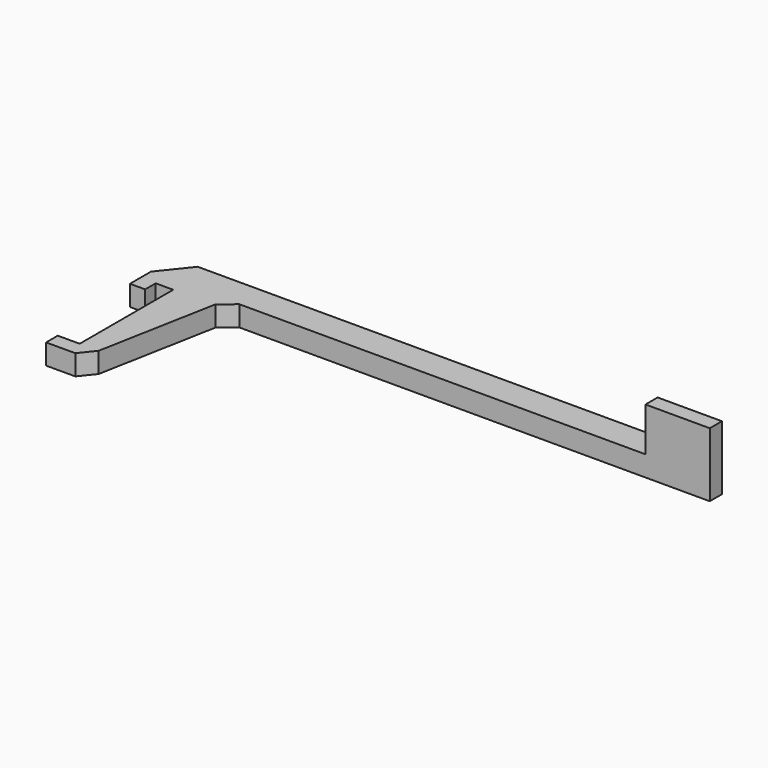
from build123d import *

# Parameters (mm, degrees)
F0_W     = 22
F0_H     = 5.2
F1_DEPTH = 7
F2_DEPTH = 22


with BuildPart() as f1:
    # F0 (on Top) → F1 (new body)
    with BuildSketch(Plane.XY):
        Polygon((-18.720507, 22.521122), (-18.720507, 27.021122), (-12.720507, 27.021122), (-12.720507, -12.978878), (-20.220507, -12.978878), (-20.220507, -17.978878), (-10.220507, -17.978878), (-6.220507, -12.978878), (1.356877, 27.433838), (2.123243, 31.521122), (6.281723, 31.521122), (145.279493, 31.521122), (145.279493, 36.721122), (167.279493, 36.721122), (162.479493, 41.521122), (-15.920452, 41.521122), (-23.920507, 31.521122), (-23.920507, 22.521122), align=None)
        with Locations((156.279493, 34.121122)):
            Rectangle(F0_W, F0_H)
        Polygon((2.123243, 31.521122), (1.356877, 27.433838), (6.281723, 31.521122), align=None)
    extrude(amount=F1_DEPTH)

    # F0 (on Top) → F2 (join)
    with BuildSketch(Plane.XY):
        with Locations((156.279493, 34.121122)):
            Rectangle(F0_W, F0_H)
    extrude(amount=F2_DEPTH)


solid = f1.part
